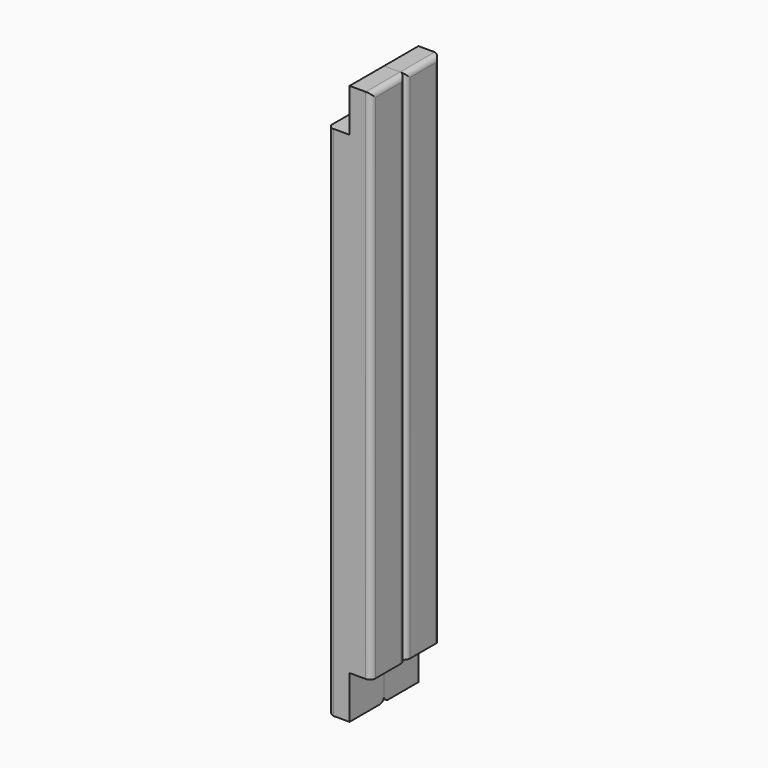
from build123d import *

# Parameters (mm, degrees)
F0_W          = 25.4
F0_H          = 50.8
F1_DEPTH      = 609.6
F2_DEPTH      = 50.8
F2_DEPTH_BACK = 558.8
F3_R          = 6.35


with BuildPart() as f1:
    # F0 (on Top) → F1 (new body)
    with BuildSketch(Plane.XY):
        with Locations((12.7, 25.4)):
            Rectangle(F0_W, F0_H)
    extrude(amount=F1_DEPTH)

    # F0 (on Top) → F2 (join, two sides)
    with BuildSketch(Plane.XY) as f2_sk:
        with Locations((-12.7, 25.4)):
            Rectangle(F0_W, F0_H)
    extrude(amount=-F2_DEPTH)
    extrude(f2_sk.sketch, amount=F2_DEPTH_BACK)

    # F3
    f3_edges = [f1.edges().sort_by_distance(p)[0] for p in [
        (25.4, 0, 304.8),
        (25.4, 50.8, 304.8),
        (-25.4, 25.4, -50.8),
        (-25.4, 0, 254),
        (-25.4, 50.8, 254),
        (-12.7, 0, -50.8),
        (25.4, 25.4, 609.6),
    ]]
    fillet(f3_edges, radius=F3_R)


with BuildPart() as f4_1:
    # F4: instance of F1
    add(f1.part.mirror(Plane.XZ))


solid = Compound([f1.part, f4_1.part])
